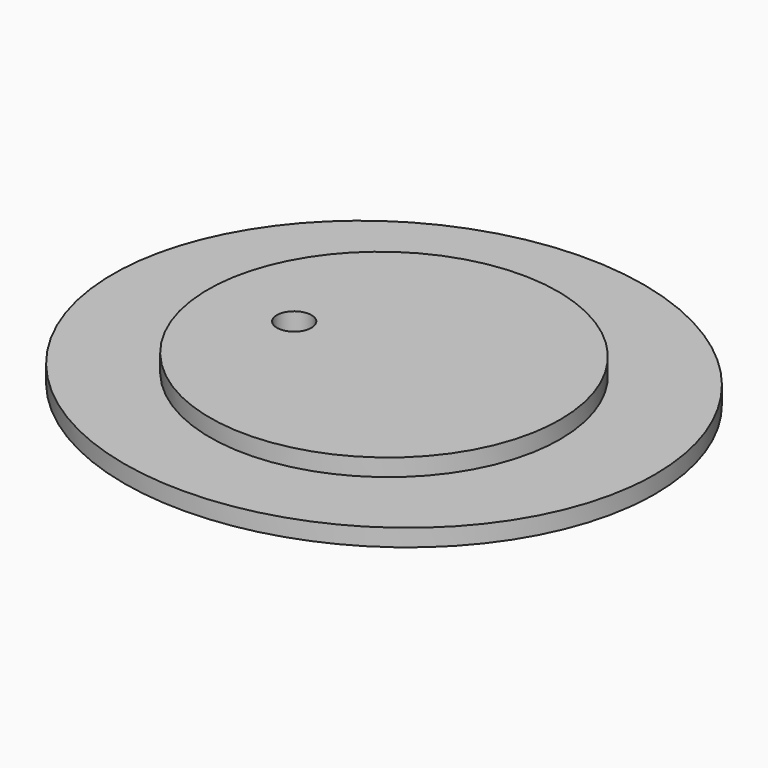
from build123d import *

# Parameters (mm, degrees)
F1_DEPTH = 5
F3_DEPTH = 5
F4_R     = 5
F5_DEPTH = 10.0010001


with BuildPart() as f1:
    # F0 (on Top) → F1 (new body)
    with BuildSketch(Plane.XY):
        with BuildLine():
            add(Edge.make_bspline(
                [(78.5, 0), (78.5, 126.4397089525), (-39.25, 63.2198544763), (-157, 0), (-39.25, -63.2198544763), (78.5, -126.4397089525), (78.5, 0)],
                knots=[0, 0, 0, 2.0943951024, 2.0943951024, 4.1887902048, 4.1887902048, 6.2831853072, 6.2831853072, 6.2831853072], degree=2, weights=[1, 0.5, 1, 0.5, 1, 0.5, 1]))
        make_face()
    extrude(amount=F1_DEPTH)

    # F2 (on face) → F3 (join)
    with BuildSketch(Plane.XY.offset(5)):
        with BuildLine():
            add(Edge.make_bspline(
                [(51, 0), (51, 86.6025403784), (-25.5, 43.3012701892), (-102, 0), (-25.5, -43.3012701892), (51, -86.6025403784), (51, 0)],
                knots=[0, 0, 0, 2.0943951024, 2.0943951024, 4.1887902048, 4.1887902048, 6.2831853072, 6.2831853072, 6.2831853072], degree=2, weights=[1, 0.5, 1, 0.5, 1, 0.5, 1]))
        make_face()
    extrude(amount=F3_DEPTH)

    # F4 (on face) → F5 (cut, through all)
    with BuildSketch(Plane.XY.offset(10)):
        with Locations((-26, 0)):
            Circle(F4_R)
    extrude(amount=-F5_DEPTH, mode=Mode.SUBTRACT)


solid = f1.part
